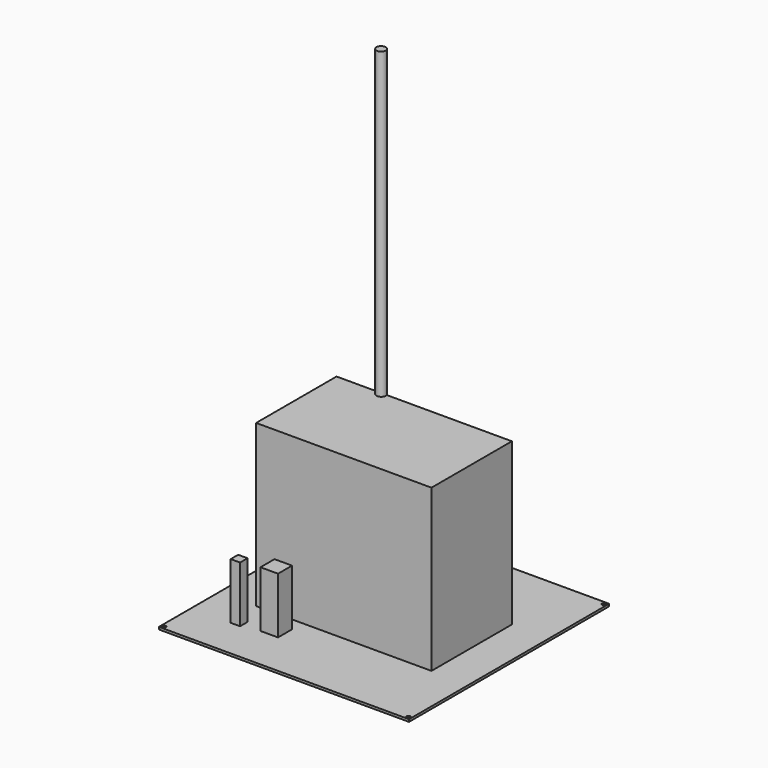
from build123d import *

# Parameters (mm, degrees)
F0_R      = 7.5
F0_R_2    = 4
F1_DEPTH  = 25
F2_DEPTH  = 400
F0_R_3    = 11
F3_DEPTH  = 7
F4_R      = 0.5
F0_W      = 42
F0_H      = 42
F0_R_4    = 2.5
F5_DEPTH  = 40
F6_DEPTH  = 2
F7_DEPTH  = 24
F8_SIZE   = 2
F9_D      = 3
F9_DEPTH  = 5
F9_TIP    = 0.9012909285
F10_W     = 214
F10_H     = 214
F11_DEPTH = 2
F12_D     = 3
F13_W     = 150
F13_H     = 86
F14_DEPTH = 140
F0_W_2    = 16
F0_H_2    = 16
F15_DEPTH = 50
F16_D     = 10
F0_R_5    = 2
F17_DEPTH = 10
F0_W_3    = 8
F0_H_3    = 8
F18_DEPTH = 50
F0_W_4    = 15
F0_H_4    = 15
F19_DEPTH = 50


with BuildPart() as f1:
    # F0 (on Top) → F1 (new body)
    with BuildSketch(Plane.XY):
        with Locations((-57.0481270552, 33.8010154665)):
            Circle(F0_R)
        with Locations((-57.0481270552, 33.8010154665)):
            Circle(F0_R_2, mode=Mode.SUBTRACT)
    extrude(amount=F1_DEPTH)


with BuildPart() as f2:
    # F0 (on Top) → F2 (new body)
    with BuildSketch(Plane.XY):
        with Locations((-35.8778648078, 41.7844988406)):
            Circle(F0_R_2)
    extrude(amount=F2_DEPTH)


with BuildPart() as f3:
    # F0 (on Top) → F3 (new body)
    with BuildSketch(Plane.XY):
        with Locations((-57.683441788, 12.7104045823)):
            Circle(F0_R_3)
        with Locations((-57.683441788, 12.7104045823)):
            Circle(F0_R_2, mode=Mode.SUBTRACT)
    extrude(amount=F3_DEPTH)

    # F4
    f4_edges = [f3.edges().sort_by_distance(p)[0] for p in [
        (-68.683442, 12.710405, 7),
        (-61.683442, 12.710405, 7),
        (-61.683442, 12.710405, 0),
        (-68.683442, 12.710405, 0),
    ]]
    fillet(f4_edges, radius=F4_R)


with BuildPart() as f5:
    # F0 (on Top) → F5 (new body)
    with BuildSketch(Plane.XY):
        with Locations((36.1795037091, 35.5219191909)):
            Rectangle(F0_W, F0_H)
        with Locations((36.1795037091, 35.5219191909)):
            Circle(F0_R_3, mode=Mode.SUBTRACT)
        with Locations((36.1795037091, 35.5219191909)):
            Circle(F0_R_3)
        with Locations((36.1795037091, 35.5219191909)):
            Circle(F0_R_4, mode=Mode.SUBTRACT)
    extrude(amount=-F5_DEPTH)

    # F0 (on Top) → F6 (join)
    with BuildSketch(Plane.XY):
        with Locations((36.1795037091, 35.5219191909)):
            Circle(F0_R_3)
        with Locations((36.1795037091, 35.5219191909)):
            Circle(F0_R_4, mode=Mode.SUBTRACT)
    extrude(amount=F6_DEPTH)

    # F0 (on Top) → F7 (join)
    with BuildSketch(Plane.XY):
        with Locations((36.1795037091, 35.5219191909)):
            Circle(F0_R_4)
    extrude(amount=F7_DEPTH)

    # F8
    f8_edges = [f5.edges().sort_by_distance(p)[0] for p in [
        (57.179504, 56.521919, -20),
        (15.179504, 56.521919, -20),
        (15.179504, 14.521919, -20),
        (57.179504, 14.521919, -20),
    ]]
    chamfer(f8_edges, length=F8_SIZE)

    # F9
    with Locations(Plane.XY):
        with Locations((20.6795037091, 51.0219191909), (51.6795037091, 51.0219191909), (51.6795037091, 20.0219191909), (20.6795037091, 20.0219191909)):
            Hole(F9_D / 2, depth=F9_DEPTH)
            with Locations((0, 0, -(F9_DEPTH + F9_TIP / 2))):  # 118° drill point
                Cone(0, F9_D / 2, F9_TIP, mode=Mode.SUBTRACT)


with BuildPart() as f11:
    # F10 (on Top) → F11 (new body)
    with BuildSketch(Plane.XY):
        Rectangle(F10_W, F10_H)
    extrude(amount=F11_DEPTH)

    # F12 (through all)
    with Locations(Plane(origin=(0, 0, 0), x_dir=(1, 0, 0), z_dir=(0, 0, -1))):
        with Locations((-104.5, -104.5), (104.5, -104.5), (104.5, 104.5), (-104.5, 104.5)):
            Hole(F12_D / 2)


with BuildPart() as f14:
    # F13 (on Top) → F14 (new body)
    with BuildSketch(Plane.XY):
        Rectangle(F13_W, F13_H)
    extrude(amount=F14_DEPTH)


with BuildPart() as f15:
    # F0 (on Top) → F15 (new body)
    with BuildSketch(Plane.XY):
        with Locations((-55.4385570884, -30.9539152384)):
            Rectangle(F0_W_2, F0_H_2)
    extrude(amount=F15_DEPTH)

    # F16 (through all)
    with Locations(Plane(origin=(0, 0, 0), x_dir=(1, 0, 0), z_dir=(0, 0, -1))):
        with Locations((-55.4385570884, 30.9539152384)):
            Hole(F16_D / 2)


with BuildPart() as f17:
    # F0 (on Top) → F17 (new body)
    with BuildSketch(Plane.XY):
        with Locations((-33.2644023001, -24.3105757982)):
            Circle(F0_R_5)
    extrude(amount=F17_DEPTH)


with BuildPart() as f18:
    # F0 (on Top) → F18 (new body)
    with BuildSketch(Plane.XY):
        with Locations((-69.2099227607, -68.4486485124)):
            Rectangle(F0_W_3, F0_H_3)
    extrude(amount=F18_DEPTH)


with BuildPart() as f19:
    # F0 (on Top) → F19 (new body)
    with BuildSketch(Plane.XY):
        with Locations((-42.7915158868, -61.7357942462)):
            Rectangle(F0_W_4, F0_H_4)
    extrude(amount=F19_DEPTH)


solid = Compound([f1.part, f2.part, f3.part, f5.part, f11.part, f14.part, f15.part, f17.part, f18.part, f19.part])
